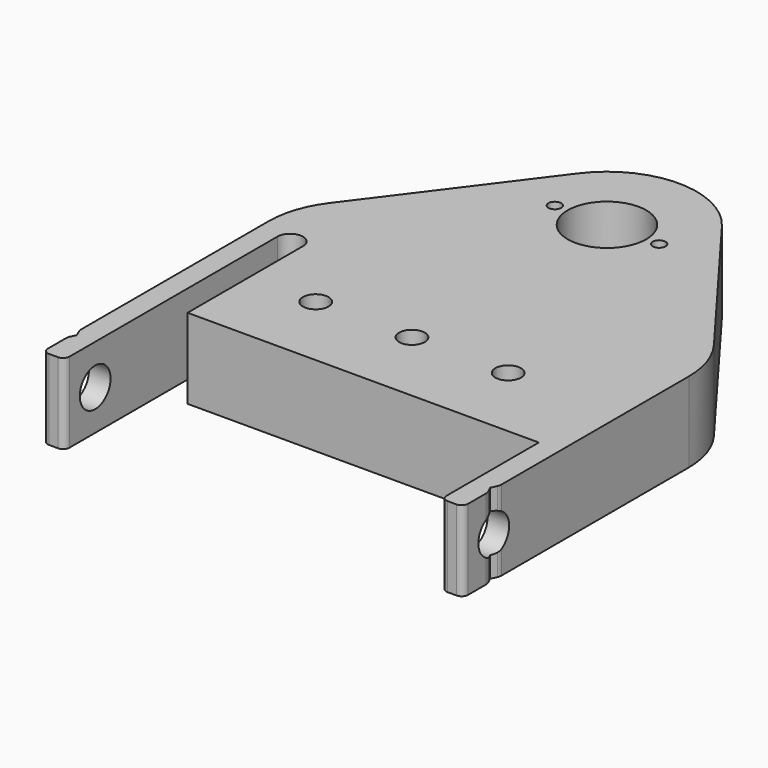
from build123d import *

# Parameters (mm, degrees)
SKETCH_R          = 12.25
SKETCH_R_2        = 2
SKETCH_R_3        = 4
PAD_DEPTH         = 12.5
SKETCH001_R       = 6
POCKET_DEPTH      = 65.501
POCKET_DEPTH_BACK = -65.501


with BuildPart() as part:
    # Sketch → Pad (new body, symmetric)
    with BuildSketch(Plane.XY):
        with BuildLine():
            Line((-50.75, 0), (58.75, 0))
            Line((58.75, 0), (58.75, -36))
            ThreePointArc((58.75, -36), (59.335786, -37.414214), (60.75, -38))
            Line((63.5, -38), (60.75, -38))
            ThreePointArc((63.5, -38), (64.914214, -37.414214), (65.5, -36))
            Line((65.5, -29), (65.5, -36))
            ThreePointArc((65.5, -29), (65.428888, -28.350681), (65.218923, -27.732145))
            Line((65.218923, -27.732145), (64.411211, -26))
            Line((65.218923, -24.267855), (64.411211, -26))
            ThreePointArc((65.218923, -24.267855), (65.428888, -23.649319), (65.5, -23))
            Line((65.5, 0), (65.5, -23))
            Line((65.5, 50), (65.5, 0))
            ThreePointArc((65.5, 50), (64.063132, 58.854377), (59.9, 66.8))
            Line((22.4, 116.8), (59.9, 66.8))
            ThreePointArc((22.4, 116.8), (0, 128), (-22.4, 116.8))
            Line((-22.4, 116.8), (-59.9, 66.8))
            ThreePointArc((-59.9, 66.8), (-64.063132, 58.854377), (-65.5, 50))
            Line((-65.5, 0), (-65.5, 50))
            Line((-65.5, 0), (-65.5, -23))
            ThreePointArc((-65.5, -23), (-65.428888, -23.649319), (-65.218923, -24.267855))
            Line((-65.218923, -24.267855), (-64.411211, -26))
            Line((-65.218923, -27.732145), (-64.411211, -26))
            ThreePointArc((-65.218923, -27.732145), (-65.428888, -28.350681), (-65.5, -29))
            Line((-65.5, -29), (-65.5, -36))
            ThreePointArc((-65.5, -36), (-64.914214, -37.414214), (-63.5, -38))
            Line((-63.5, -38), (-60.75, -38))
            ThreePointArc((-60.75, -38), (-59.335786, -37.414214), (-58.75, -36))
            Line((-58.75, 0), (-58.75, -36))
            Line((-58.75, 0), (-58.75, 45))
            ThreePointArc((-50.75, 45), (-54.75, 49), (-58.75, 45))
            Line((-50.75, 45), (-50.75, 0))
        make_face()
        with Locations((0, 100)):
            Circle(SKETCH_R, mode=Mode.SUBTRACT)
        with Locations((16.25, 100)):
            Circle(SKETCH_R_2, mode=Mode.SUBTRACT)
        with Locations((-16.25, 100)):
            Circle(SKETCH_R_2, mode=Mode.SUBTRACT)
        with Locations((0, 24)):
            Circle(SKETCH_R_3, mode=Mode.SUBTRACT)
        with Locations((30, 24)):
            Circle(SKETCH_R_3, mode=Mode.SUBTRACT)
        with Locations((-30, 24)):
            Circle(SKETCH_R_3, mode=Mode.SUBTRACT)
    extrude(amount=PAD_DEPTH, both=True)

    # Sketch001 → Pocket (cut, two sides)
    with BuildSketch(Plane.YZ) as pocket_sk:
        with Locations((-26, 0)):
            Circle(SKETCH001_R)
    extrude(amount=-POCKET_DEPTH, mode=Mode.SUBTRACT)
    extrude(pocket_sk.sketch, amount=-POCKET_DEPTH_BACK, mode=Mode.SUBTRACT)


solid = part.part
